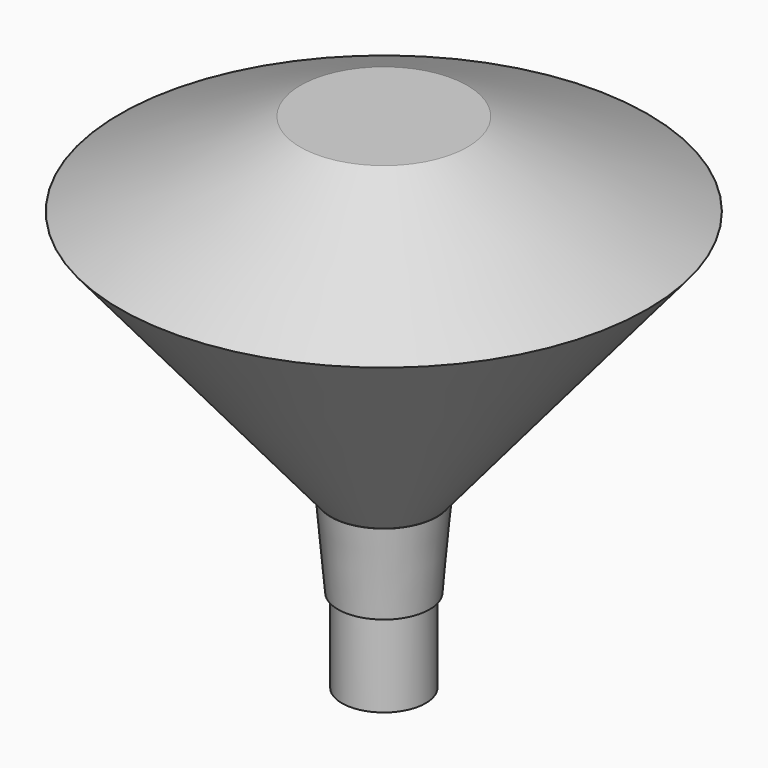
from build123d import *

# Parameters (mm, degrees)
F0_R     = 12.7
F1_DEPTH = 25.4
F2_R     = 13.889054696
F3_DEPTH = 25.4
F3_TAPER = -5
F4_R     = 16.0431717149
F5_DEPTH = 76.2
F5_TAPER = -40
F6_R     = 79.7788549735
F7_DEPTH = 25.4
F7_TAPER = 65


with BuildPart() as f1:
    # F0 (on Top) → F1 (new body)
    with BuildSketch(Plane.XY):
        Circle(F0_R)
    extrude(amount=F1_DEPTH)

    # F2 (on face) → F3 (join)
    with BuildSketch(Plane.XY.offset(25.4)):
        Circle(F2_R)
    extrude(amount=F3_DEPTH, taper=F3_TAPER)

    # F4 (on face) → F5 (join)
    with BuildSketch(Plane.XY.offset(50.8)):
        Circle(F4_R)
    extrude(amount=F5_DEPTH, taper=F5_TAPER)

    # F6 (on face) → F7 (join)
    with BuildSketch(Plane.XY.offset(127)):
        Circle(F6_R)
    extrude(amount=F7_DEPTH, taper=F7_TAPER)


solid = f1.part
